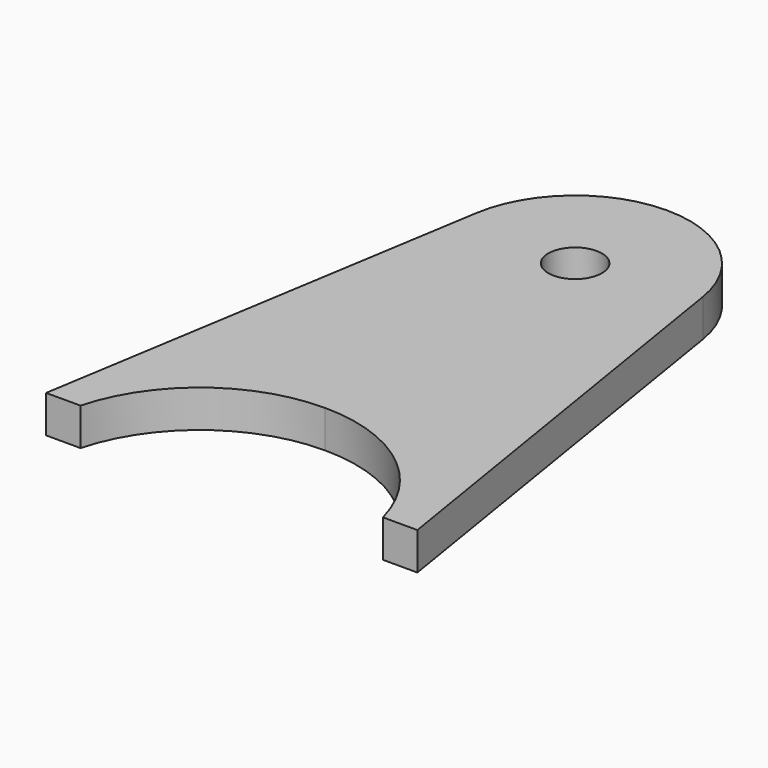
from build123d import *

# Parameters (mm, degrees)
F1_DEPTH = 4.55422
F3_D     = 6.5278


with BuildPart() as f1:
    # F0 (on Top) → F1 (new body)
    with BuildSketch(Plane.XY):
        with BuildLine():
            ThreePointArc((13.7908409365, 19.2683128195), (9.0555394057, 27.6757343672), (0, 31.0081544698))
            ThreePointArc((0, 31.0081544698), (-9.0555394057, 27.6757343672), (-13.7908409365, 19.2683128195))
            Line((-13.7908409365, 19.2683128195), (-22.6024780422, -35.2210402489))
            Line((-22.6024780422, -35.2210402489), (-18.4114780422, -35.2210402489))
            ThreePointArc((-18.4114780422, -35.2210402489), (-11.61319636, -25.0109789887), (0, -21.0618455302))
            ThreePointArc((0, -21.0618455302), (11.61319636, -25.0109789887), (18.4114780422, -35.2210402489))
            Line((18.4114780422, -35.2210402489), (22.6024780422, -35.2210402489))
            Line((22.6024780422, -35.2210402489), (13.7908409365, 19.2683128195))
        make_face()
    extrude(amount=F1_DEPTH)

    # F3 (through all)
    with Locations(Plane.XY.offset(4.55422)):
        with Locations((0, 17.0381544698)):
            Hole(F3_D / 2)


solid = f1.part
